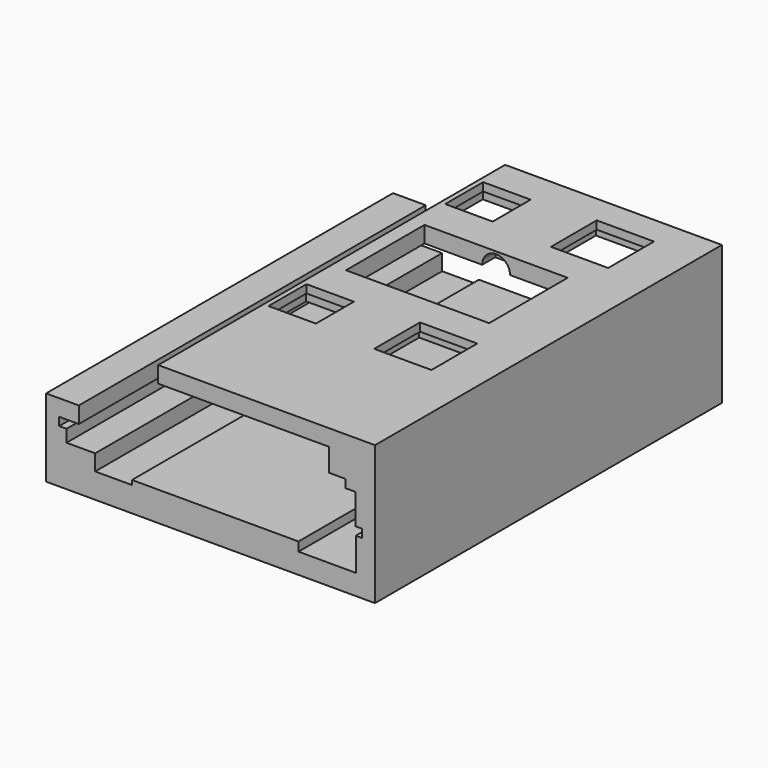
from build123d import *

# Parameters (mm, degrees)
SKETCH_W        = 40.2
SKETCH_H        = 15
PAD_DEPTH       = 53
POCKET_DEPTH    = 53
SKETCH022_W     = 26.5
SKETCH022_H     = 2
PAD015_DEPTH    = 53
SKETCH023_W     = 5.8
SKETCH023_H     = 5.8
SKETCH023_W_2   = 7
SKETCH023_H_2   = 7
POCKET007_DEPTH = 2.001
SKETCH024_W     = 6.2
SKETCH024_H     = 6.2
SKETCH024_W_2   = 8
SKETCH024_H_2   = 8
POCKET008_DEPTH = 1
SKETCH025_W     = 17.5
SKETCH025_H     = 12
POCKET009_DEPTH = 2.001
SKETCH026_R     = 1.7
POCKET010_DEPTH = 8


with BuildPart() as part:
    # Sketch → Pad (new body)
    with BuildSketch(Plane.XZ):
        with Locations((18.1, 1)):
            Rectangle(SKETCH_W, SKETCH_H)
    extrude(amount=-PAD_DEPTH)

    # Sketch001 → Pocket (cut)
    with BuildSketch(Plane.XZ):
        Polygon((-2, 11), (-2, 3), (2, 3), (2, 1), (-0.4, 1), (-0.4, 0), (0.5, 0), (0.5, -1.5), (4, -1.5), (4, -3.45), (8.5, -3.45), (8.5, -2.9), (28.85, -2.9), (28.85, -4), (35.85, -4), (35.85, 0), (36.6, 0), (36.6, 1), (35.8, 1), (35.8, 4.7), (34.6, 4.7), (34.6, 5.7), (32.6, 5.7), (32.6, 11), align=None)
    extrude(amount=-POCKET_DEPTH, mode=Mode.SUBTRACT)

    # Sketch022 → Pad015 (join)
    with BuildSketch(Plane.XZ):
        with Locations((24.95, 9.5)):
            Rectangle(SKETCH022_W, SKETCH022_H)
    extrude(amount=-PAD015_DEPTH)

    # Sketch023 → Pocket007 (cut, through all)
    with BuildSketch(Plane.XY.offset(8.5)):
        with Locations((15.2, 19)):
            Rectangle(SKETCH023_W, SKETCH023_H)
        with Locations((29.2, 19)):
            Rectangle(SKETCH023_W_2, SKETCH023_H_2)
        with Locations((15.2, 46)):
            Rectangle(SKETCH023_W, SKETCH023_H)
        with Locations((29.2, 46)):
            Rectangle(SKETCH023_W_2, SKETCH023_H_2)
    extrude(amount=POCKET007_DEPTH, mode=Mode.SUBTRACT)

    # Sketch024 → Pocket008 (cut)
    with BuildSketch(Plane.XY.offset(8.5)):
        with Locations((15.2, 19)):
            Rectangle(SKETCH024_W, SKETCH024_H)
        with Locations((29.2, 19)):
            Rectangle(SKETCH024_W_2, SKETCH024_H_2)
        with Locations((15.2, 46)):
            Rectangle(SKETCH024_W, SKETCH024_H)
        with Locations((29.2, 46)):
            Rectangle(SKETCH024_W_2, SKETCH024_H_2)
    extrude(amount=POCKET008_DEPTH, mode=Mode.SUBTRACT)

    # Sketch025 → Pocket009 (cut, through all)
    with BuildSketch(Plane.XY.offset(8.5)):
        with Locations((22.2, 32.5)):
            Rectangle(SKETCH025_W, SKETCH025_H)
    extrude(amount=POCKET009_DEPTH, mode=Mode.SUBTRACT)

    # Sketch026 → Pocket010 (cut, symmetric)
    with BuildSketch(Plane(origin=(0, 32.5, 8.5), x_dir=(1, 0, 0), z_dir=(0, -1, 0))):
        with Locations((22.2, 0)):
            Circle(SKETCH026_R)
    extrude(amount=POCKET010_DEPTH, both=True, mode=Mode.SUBTRACT)


solid = part.part
